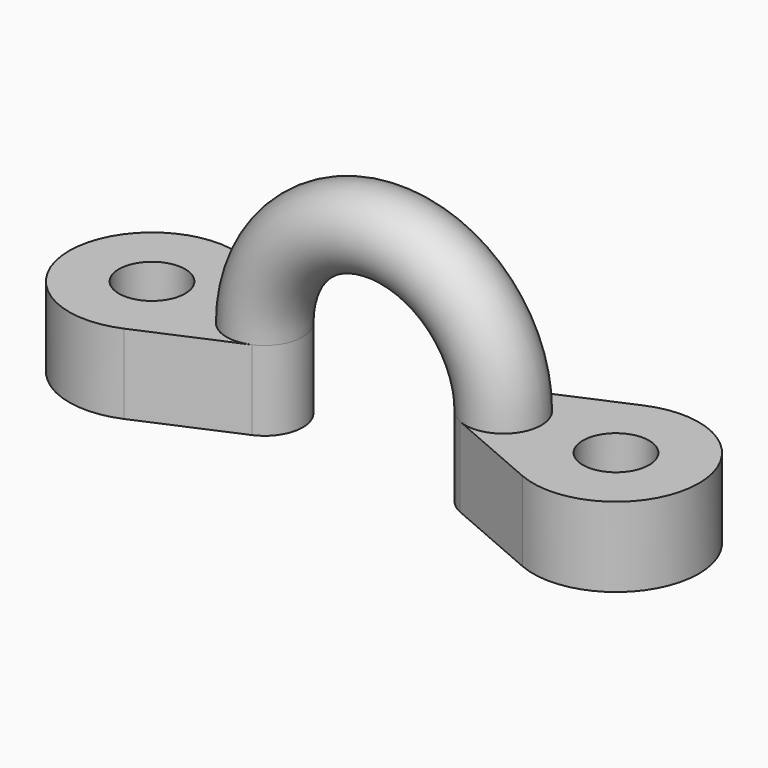
from build123d import *

# Parameters (mm, degrees)
F0_R      = 2.921
F3_R      = 2.921
F4_FACE_R = 2.921
F8_R      = 2.54
F9_DEPTH  = 6.096


with BuildPart() as f4:
    # F0 (on Top) → F4 section 0
    with BuildSketch(Plane.XY):
        with Locations((9.144, 0)):
            Circle(F0_R)
    # F3 (on offset) → F4 section 1
    with BuildSketch(Plane.XY.offset(6.096)):
        with Locations((9.144, 0)):
            Circle(F3_R)
    loft()

    # F6: sweep along a path in F5
    with BuildLine(Plane.XZ) as f6_path:
        ThreePointArc((9.144, 6.096), (0, 15.24), (-9.144, 6.096))
    # F4_face (on face) → F6 (sweep)
    with BuildSketch(Plane(origin=(9.144, 0, 6.096), x_dir=(1, 0, 0), z_dir=(0, 0, 1))):
        Circle(F4_FACE_R)
    sweep(path=f6_path.line)

    # F7: F4 across plane


with BuildPart() as f4_1:
    add(f4.part)
    add(f4.part.mirror(Plane.YZ))

    # F8 (on Top) → F9 (join)
    with BuildSketch(Plane.XY):
        with BuildLine():
            Line((7.9841911765, -2.6808738301), (15.2586764706, -5.8279865872))
            ThreePointArc((15.2586764706, -5.8279865872), (24.13, 0), (15.2586764706, 5.8279865872))
            Line((15.2586764706, 5.8279865872), (7.9841911765, 2.6808738301))
            ThreePointArc((7.9841911765, 2.6808738301), (6.223, 0), (7.9841911765, -2.6808738301))
        make_face()
        with Locations((17.78, 0)):
            Circle(F8_R, mode=Mode.SUBTRACT)
    extrude(amount=F9_DEPTH)

    # F10: F4 across plane


with BuildPart() as f4_2:
    add(f4_1.part)
    add(f4_1.part.mirror(Plane.YZ))


solid = f4_2.part
